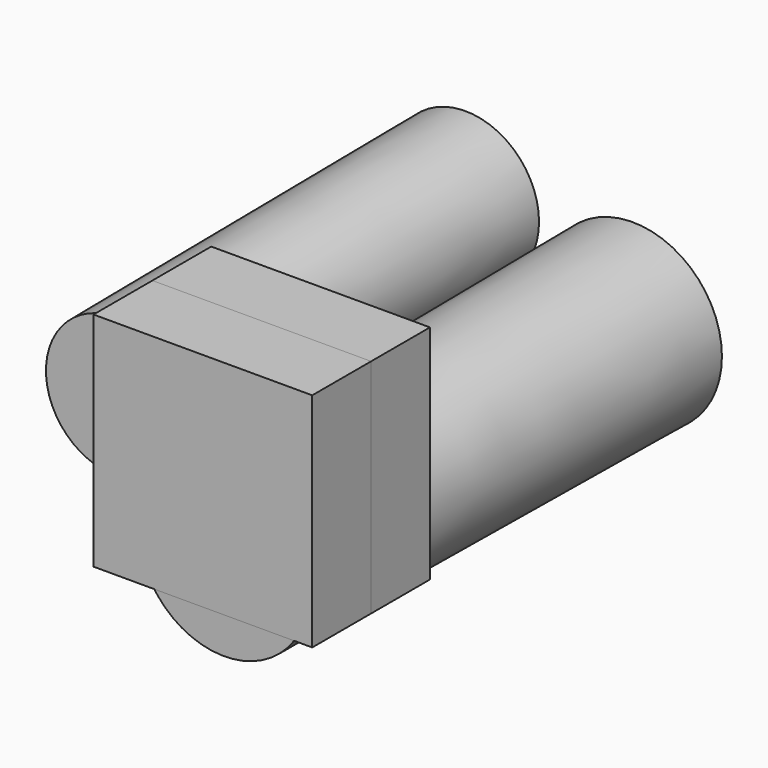
from build123d import *

# Parameters (mm, degrees)
F0_R     = 25.4193778843
F1_DEPTH = 150.876
F1_TAPER = 0.5
F0_R_2   = 30.8085387938
F2_DEPTH = 25.4
F3_W     = 75.5140818655
F3_H     = 76.6339153051
F4_DEPTH = 25.4
F5_DEPTH = 25.4


with BuildPart() as f1:
    # F0 (on Front) → F1 (new body)
    with BuildSketch(Plane.XZ):
        with Locations((-48.0178035796, 37.2946895659)):
            Circle(F0_R)
    extrude(amount=F1_DEPTH, taper=F1_TAPER)


with BuildPart() as f1b:
    # F0 (on Front) → F1, piece 2 (new body)
    with BuildSketch(Plane.XZ):
        with Locations((9.7290975973, 16.9314388186)):
            Circle(F0_R_2)
    extrude(amount=F1_DEPTH, taper=F1_TAPER)

    # F2 (add): a face of the model
    f2_faces = [f1b.faces().sort_by_distance(p)[0] for p in [
        (9.7290975973, -150.876, 16.9314388186),
    ]]
    extrude(f2_faces, amount=F2_DEPTH)


with BuildPart() as f4:
    # F3 (on face) → F4 (new body)
    with BuildSketch(Plane.XZ.offset(150.876)):
        with Locations((2.3727100343, 38.3169576526)):
            Rectangle(F3_W, F3_H)
    extrude(amount=F4_DEPTH)


with BuildPart() as f5:
    # F5 (new): a face of the model
    f5_faces = [f4.part.faces().sort_by_distance(p)[0] for p in [
        (2.3727100343, -150.876, 38.3169576526),
    ]]
    extrude(f5_faces, amount=F5_DEPTH)


solid = Compound([f1.part, f1b.part, f4.part, f5.part])
